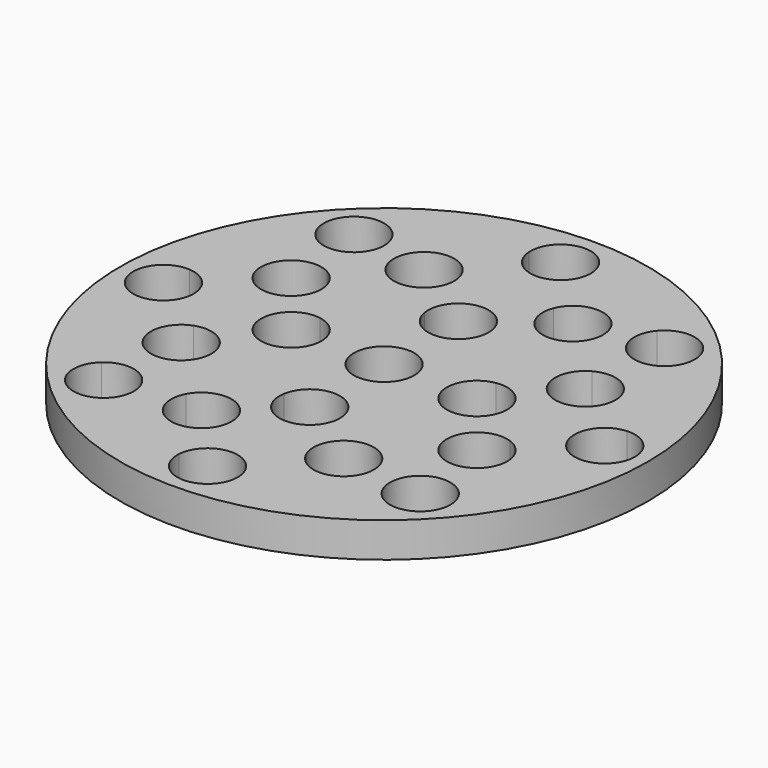
from build123d import *

# Parameters (mm, degrees)
F0_R     = 22.7269088133
F0_R_2   = 2.6
F1_DEPTH = 0.2
F2_DEPTH = 3


with BuildPart() as f1:
    # F0 (on Top) → F1 (new body)
    with BuildSketch(Plane.XY):
        Circle(F0_R)
        with BuildLine():
            ThreePointArc((15.0115532992, 11.647028271), (17.5119634584, 7.3709657326), (18.8221052632, 2.593906988))
            ThreePointArc((18.8221052632, 2.593906988), (20.7744680448, 1.9003323809), (21.6, 0))
            ThreePointArc((21.6, 0), (20.7744680448, -1.9003323809), (18.8221052632, -2.593906988))
            ThreePointArc((18.8221052632, -2.593906988), (17.6166685539, -7.1170913344), (15.3419208378, -11.2082766296))
            ThreePointArc((15.3419208378, -11.2082766296), (16.0252145474, -12.1005475611), (16.2681064145, -13.1978356954))
            ThreePointArc((16.2681064145, -13.1978356954), (14.6015472715, -15.6244976344), (11.7383462865, -14.940255234))
            ThreePointArc((11.7383462865, -14.940255234), (7.4243222515, -17.4894093413), (2.593906988, -18.8221052632))
            ThreePointArc((2.593906988, -18.8221052632), (2.5984763005, -18.9110004745), (2.6, -19))
            ThreePointArc((2.6, -19), (-0.0889995255, -21.5984763005), (-2.593906988, -18.8221052632))
            ThreePointArc((-2.593906988, -18.8221052632), (-7.167611519, -17.5961741612), (-11.2961362901, -15.2773461346))
            ThreePointArc((-11.2961362901, -15.2773461346), (-15.0927804828, -15.4521188611), (-15.0073732433, -11.6524138417))
            ThreePointArc((-15.0073732433, -11.6524138417), (-17.5106407823, -7.3741073624), (-18.8221052632, -2.593906988))
            ThreePointArc((-18.8221052632, -2.593906988), (-21.6, 0), (-18.8221052632, 2.593906988))
            ThreePointArc((-18.8221052632, 2.593906988), (-17.5399423951, 7.3041372371), (-15.0999387471, 11.5322092348))
            ThreePointArc((-15.0999387471, 11.5322092348), (-15.2156837185, 15.3311111463), (-11.4177650122, 15.1866600056))
            ThreePointArc((-11.4177650122, 15.1866600056), (-7.2378072381, 17.5674171802), (-2.593906988, 18.8221052632))
            ThreePointArc((-2.593906988, 18.8221052632), (-0.0889995255, 21.5984763005), (2.6, 19))
            ThreePointArc((2.6, 19), (2.5984763005, 18.9110004745), (2.593906988, 18.8221052632))
            ThreePointArc((2.593906988, 18.8221052632), (7.17076826, 17.5948879667), (11.3016172529, 15.2732919657))
            ThreePointArc((11.3016172529, 15.2732919657), (14.1792033178, 16.0272768152), (15.8809330705, 13.5873771118))
            ThreePointArc((15.8809330705, 13.5873771118), (15.6536543557, 12.5242714243), (15.0115532992, 11.647028271))
        make_face(mode=Mode.SUBTRACT)
        with BuildLine():
            ThreePointArc((18.8221052632, -2.593906988), (16.4, 0), (18.8221052632, 2.593906988))
            ThreePointArc((18.8221052632, 2.593906988), (17.5119634584, 7.3709657326), (15.0115532992, 11.647028271))
            ThreePointArc((15.0115532992, 11.647028271), (11.4635422292, 11.7280518228), (11.3016172529, 15.2732919657))
            ThreePointArc((11.3016172529, 15.2732919657), (7.17076826, 17.5948879667), (2.593906988, 18.8221052632))
            ThreePointArc((2.593906988, 18.8221052632), (0, 16.4), (-2.593906988, 18.8221052632))
            ThreePointArc((-2.593906988, 18.8221052632), (-7.2378072381, 17.5674171802), (-11.4177650122, 15.1866600056))
            ThreePointArc((-11.4177650122, 15.1866600056), (-10.9477094647, 14.3932669237), (-10.7841662339, 13.4856996194))
            ThreePointArc((-10.7841662339, 13.4856996194), (-12.312020846, 11.1170493144), (-15.0999387471, 11.5322092348))
            ThreePointArc((-15.0999387471, 11.5322092348), (-17.5399423951, 7.3041372371), (-18.8221052632, 2.593906988))
            ThreePointArc((-18.8221052632, 2.593906988), (-17.0996676191, 1.7744680448), (-16.4, 0))
            ThreePointArc((-16.4, 0), (-17.0996676191, -1.7744680448), (-18.8221052632, -2.593906988))
            ThreePointArc((-18.8221052632, -2.593906988), (-17.5106407823, -7.3741073624), (-15.0073732433, -11.6524138417))
            ThreePointArc((-15.0073732433, -11.6524138417), (-12.2133769159, -11.2192296164), (-10.6760569061, -13.5921415908))
            ThreePointArc((-10.6760569061, -13.5921415908), (-10.8359960871, -14.4899740914), (-11.2961362901, -15.2773461346))
            ThreePointArc((-11.2961362901, -15.2773461346), (-7.167611519, -17.5961741612), (-2.593906988, -18.8221052632))
            ThreePointArc((-2.593906988, -18.8221052632), (0, -16.4), (2.593906988, -18.8221052632))
            ThreePointArc((2.593906988, -18.8221052632), (7.4243222515, -17.4894093413), (11.7383462865, -14.940255234))
            ThreePointArc((11.7383462865, -14.940255234), (11.7977339578, -11.3918160739), (15.3419208378, -11.2082766296))
            ThreePointArc((15.3419208378, -11.2082766296), (17.6166685539, -7.1170913344), (18.8221052632, -2.593906988))
        make_face()
        with BuildLine():
            ThreePointArc((-13.5738623048, 3.4278655357), (-15.0656019054, 6.9704834286), (-11.3997714217, 8.1268205058))
            ThreePointArc((-11.3997714217, 8.1268205058), (-10.1345987705, 9.6586700824), (-8.665326419, 10.9960046404))
            ThreePointArc((-8.665326419, 10.9960046404), (-7.6865134191, 14.713174758), (-4.0762933296, 13.3934249799))
            ThreePointArc((-4.0762933296, 13.3934249799), (-0.1422720179, 13.9992770768), (3.8032497947, 13.4735032935))
            ThreePointArc((3.8032497947, 13.4735032935), (6.704919005, 15.093973203), (8.8290741845, 12.5378879722))
            ThreePointArc((8.8290741845, 12.5378879722), (8.7299301101, 11.8267482955), (8.440059077, 11.1698434535))
            ThreePointArc((8.440059077, 11.1698434535), (10.1223773358, 9.671477502), (11.5425830762, 7.9226747963))
            ThreePointArc((11.5425830762, 7.9226747963), (14.1254460838, 7.89350215), (15.4085292297, 5.6516881524))
            ThreePointArc((15.4085292297, 5.6516881524), (14.9183722031, 4.1322926715), (13.632711824, 3.1857759376))
            ThreePointArc((13.632711824, 3.1857759376), (13.9078748473, 1.6034391888), (14, 0))
            ThreePointArc((14, 0), (13.8928375225, -1.7288914289), (13.5729906324, -3.431315388))
            ThreePointArc((13.5729906324, -3.431315388), (14.8279042394, -4.3816577151), (15.3044347586, -5.8819501413))
            ThreePointArc((15.3044347586, -5.8819501413), (14.0010657752, -8.135557917), (11.3977055227, -8.1297176346))
            ThreePointArc((11.3977055227, -8.1297176346), (10.1242753607, -9.6694905978), (8.6446134433, -11.0122957832))
            ThreePointArc((8.6446134433, -11.0122957832), (8.9534255166, -11.6867114274), (9.0592334701, -12.4208817311))
            ThreePointArc((9.0592334701, -12.4208817311), (6.9586282011, -14.9724704328), (4.0510758527, -13.4010740031))
            ThreePointArc((4.0510758527, -13.4010740031), (0.5892198681, -13.9875952167), (-2.9096982086, -13.6942928381))
            ThreePointArc((-2.9096982086, -13.6942928381), (-6.3930849811, -15.3195451768), (-7.6878579795, -11.7002922907))
            ThreePointArc((-7.6878579795, -11.7002922907), (-9.6368445542, -10.1553545993), (-11.2817109425, -8.2899335468))
            ThreePointArc((-11.2817109425, -8.2899335468), (-14.9637929237, -7.1864387102), (-13.5231581881, -3.6227327557))
            ThreePointArc((-13.5231581881, -3.6227327557), (-13.9996379941, -0.1006778785), (-13.5738623048, 3.4278655357))
        make_face(mode=Mode.SUBTRACT)
        with BuildLine():
            ThreePointArc((-11.3997714217, 8.1268205058), (-10.4524863376, 7.175638361), (-10.1059293178, 5.8787209639))
            ThreePointArc((-10.1059293178, 5.8787209639), (-11.2053670509, 3.755442159), (-13.5738623048, 3.4278655357))
            ThreePointArc((-13.5738623048, 3.4278655357), (-13.9996379941, -0.1006778785), (-13.5231581881, -3.6227327557))
            ThreePointArc((-13.5231581881, -3.6227327557), (-11.1348119413, -3.9268370633), (-10.0200663212, -6.0608519243))
            ThreePointArc((-10.0200663212, -6.0608519243), (-10.3573551173, -7.3415306535), (-11.2817109425, -8.2899335468))
            ThreePointArc((-11.2817109425, -8.2899335468), (-9.6368445542, -10.1553545993), (-7.6878579795, -11.7002922907))
            ThreePointArc((-7.6878579795, -11.7002922907), (-4.7632120235, -10.3972171655), (-2.7917584178, -12.9200983419))
            ThreePointArc((-2.7917584178, -12.9200983419), (-2.8214124738, -13.3116615271), (-2.9096982086, -13.6942928381))
            ThreePointArc((-2.9096982086, -13.6942928381), (0.5892198681, -13.9875952167), (4.0510758527, -13.4010740031))
            ThreePointArc((4.0510758527, -13.4010740031), (5.2596615399, -10.1141465525), (8.6446134433, -11.0122957832))
            ThreePointArc((8.6446134433, -11.0122957832), (10.1242753607, -9.6694905978), (11.3977055227, -8.1297176346))
            ThreePointArc((11.3977055227, -8.1297176346), (10.345039732, -4.7895879722), (13.5729906324, -3.431315388))
            ThreePointArc((13.5729906324, -3.431315388), (13.8928375225, -1.7288914289), (14, 0))
            ThreePointArc((14, 0), (13.9078748473, 1.6034391888), (13.632711824, 3.1857759376))
            ThreePointArc((13.632711824, 3.1857759376), (10.4298023727, 4.6020889241), (11.5425830762, 7.9226747963))
            ThreePointArc((11.5425830762, 7.9226747963), (10.1223773358, 9.671477502), (8.440059077, 11.1698434535))
            ThreePointArc((8.440059077, 11.1698434535), (5.0722461217, 10.2094230631), (3.8032497947, 13.4735032935))
            ThreePointArc((3.8032497947, 13.4735032935), (-0.1422720179, 13.9992770768), (-4.0762933296, 13.3934249799))
            ThreePointArc((-4.0762933296, 13.3934249799), (-3.9314841092, 12.9104975238), (-3.8826016788, 12.4087016031))
            ThreePointArc((-3.8826016788, 12.4087016031), (-5.7460843078, 9.9152016207), (-8.665326419, 10.9960046404))
            ThreePointArc((-8.665326419, 10.9960046404), (-10.1345987705, 9.6586700824), (-11.3997714217, 8.1268205058))
        make_face()
        with BuildLine():
            ThreePointArc((2.5654422133, 7.5775), (5.6568542495, 5.6568542495), (7.5775, 2.5654422133))
            ThreePointArc((7.5775, 2.5654422133), (9.6824832837, 1.9822335887), (10.6, 0))
            ThreePointArc((10.6, 0), (9.6824832837, -1.9822335887), (7.5775, -2.5654422133))
            ThreePointArc((7.5775, -2.5654422133), (5.6568542495, -5.6568542495), (2.5654422133, -7.5775))
            ThreePointArc((2.5654422133, -7.5775), (2.5913461516, -7.7880445267), (2.6, -8))
            ThreePointArc((2.6, -8), (-0.2119554733, -10.5913461516), (-2.5654422133, -7.5775))
            ThreePointArc((-2.5654422133, -7.5775), (-5.6568542495, -5.6568542495), (-7.5775, -2.5654422133))
            ThreePointArc((-7.5775, -2.5654422133), (-10.6, 0), (-7.5775, 2.5654422133))
            ThreePointArc((-7.5775, 2.5654422133), (-5.6568542495, 5.6568542495), (-2.5654422133, 7.5775))
            ThreePointArc((-2.5654422133, 7.5775), (-0.2119554733, 10.5913461516), (2.6, 8))
            ThreePointArc((2.6, 8), (2.5913461516, 7.7880445267), (2.5654422133, 7.5775))
        make_face(mode=Mode.SUBTRACT)
        with BuildLine():
            ThreePointArc((7.5775, -2.5654422133), (5.4, 0), (7.5775, 2.5654422133))
            ThreePointArc((7.5775, 2.5654422133), (5.6568542495, 5.6568542495), (2.5654422133, 7.5775))
            ThreePointArc((2.5654422133, 7.5775), (0, 5.4), (-2.5654422133, 7.5775))
            ThreePointArc((-2.5654422133, 7.5775), (-5.6568542495, 5.6568542495), (-7.5775, 2.5654422133))
            ThreePointArc((-7.5775, 2.5654422133), (-6.0177664113, 1.6824832837), (-5.4, 0))
            ThreePointArc((-5.4, 0), (-6.0177664113, -1.6824832837), (-7.5775, -2.5654422133))
            ThreePointArc((-7.5775, -2.5654422133), (-5.6568542495, -5.6568542495), (-2.5654422133, -7.5775))
            ThreePointArc((-2.5654422133, -7.5775), (0, -5.4), (2.5654422133, -7.5775))
            ThreePointArc((2.5654422133, -7.5775), (5.6568542495, -5.6568542495), (7.5775, -2.5654422133))
        make_face()
        Circle(F0_R_2, mode=Mode.SUBTRACT)
        with BuildLine():
            ThreePointArc((-15.0073732433, -11.6524138417), (-13.2760569061, -13.5921415908), (-11.2961362901, -15.2773461346))
            ThreePointArc((-11.2961362901, -15.2773461346), (-10.8359960871, -14.4899740914), (-10.6760569061, -13.5921415908))
            ThreePointArc((-10.6760569061, -13.5921415908), (-12.2133769159, -11.2192296164), (-15.0073732433, -11.6524138417))
        make_face()
        with BuildLine():
            ThreePointArc((-11.2817109425, -8.2899335468), (-12.6200663212, -6.0608519243), (-13.5231581881, -3.6227327557))
            ThreePointArc((-13.5231581881, -3.6227327557), (-14.9637929237, -7.1864387102), (-11.2817109425, -8.2899335468))
        make_face()
        with BuildLine():
            ThreePointArc((-2.593906988, -18.8221052632), (0, -19), (2.593906988, -18.8221052632))
            ThreePointArc((2.593906988, -18.8221052632), (0, -16.4), (-2.593906988, -18.8221052632))
        make_face()
        with BuildLine():
            ThreePointArc((2.6, -19), (2.5984763005, -18.9110004745), (2.593906988, -18.8221052632))
            ThreePointArc((2.593906988, -18.8221052632), (0, -19), (-2.593906988, -18.8221052632))
            ThreePointArc((-2.593906988, -18.8221052632), (-0.0889995255, -21.5984763005), (2.6, -19))
        make_face()
        with BuildLine():
            ThreePointArc((-2.5654422133, 7.5775), (0, 8), (2.5654422133, 7.5775))
            ThreePointArc((2.5654422133, 7.5775), (2.5913461516, 7.7880445267), (2.6, 8))
            ThreePointArc((2.6, 8), (-0.2119554733, 10.5913461516), (-2.5654422133, 7.5775))
        make_face()
        with BuildLine():
            ThreePointArc((-10.7841662339, 13.4856996194), (-10.9477094647, 14.3932669237), (-11.4177650122, 15.1866600056))
            ThreePointArc((-11.4177650122, 15.1866600056), (-13.3841662339, 13.4856996194), (-15.0999387471, 11.5322092348))
            ThreePointArc((-15.0999387471, 11.5322092348), (-12.312020846, 11.1170493144), (-10.7841662339, 13.4856996194))
        make_face()
        with BuildLine():
            ThreePointArc((15.4085292297, 5.6516881524), (14.1254460838, 7.89350215), (11.5425830762, 7.9226747963))
            ThreePointArc((11.5425830762, 7.9226747963), (12.8085292297, 5.6516881524), (13.632711824, 3.1857759376))
            ThreePointArc((13.632711824, 3.1857759376), (14.9183722031, 4.1322926715), (15.4085292297, 5.6516881524))
        make_face()
        with BuildLine():
            ThreePointArc((-7.5775, -2.5654422133), (-8, 0), (-7.5775, 2.5654422133))
            ThreePointArc((-7.5775, 2.5654422133), (-10.6, 0), (-7.5775, -2.5654422133))
        make_face()
        with BuildLine():
            ThreePointArc((-2.5654422133, -7.5775), (0, -8), (2.5654422133, -7.5775))
            ThreePointArc((2.5654422133, -7.5775), (0, -5.4), (-2.5654422133, -7.5775))
        make_face()
        with BuildLine():
            ThreePointArc((-4.0762933296, 13.3934249799), (-7.6865134191, 14.713174758), (-8.665326419, 10.9960046404))
            ThreePointArc((-8.665326419, 10.9960046404), (-6.4826016788, 12.4087016031), (-4.0762933296, 13.3934249799))
        make_face()
        with BuildLine():
            ThreePointArc((8.8290741845, 12.5378879722), (6.704919005, 15.093973203), (3.8032497947, 13.4735032935))
            ThreePointArc((3.8032497947, 13.4735032935), (6.2290741845, 12.5378879722), (8.440059077, 11.1698434535))
            ThreePointArc((8.440059077, 11.1698434535), (8.7299301101, 11.8267482955), (8.8290741845, 12.5378879722))
        make_face()
        with BuildLine():
            ThreePointArc((11.7383462865, -14.940255234), (13.6681064145, -13.1978356954), (15.3419208378, -11.2082766296))
            ThreePointArc((15.3419208378, -11.2082766296), (11.7977339578, -11.3918160739), (11.7383462865, -14.940255234))
        make_face()
        with BuildLine():
            ThreePointArc((13.5729906324, -3.431315388), (10.345039732, -4.7895879722), (11.3977055227, -8.1297176346))
            ThreePointArc((11.3977055227, -8.1297176346), (12.7044347586, -5.8819501413), (13.5729906324, -3.431315388))
        make_face()
        with BuildLine():
            ThreePointArc((-2.593906988, 18.8221052632), (0, 19), (2.593906988, 18.8221052632))
            ThreePointArc((2.593906988, 18.8221052632), (2.5984763005, 18.9110004745), (2.6, 19))
            ThreePointArc((2.6, 19), (-0.0889995255, 21.5984763005), (-2.593906988, 18.8221052632))
        make_face()
        with BuildLine():
            ThreePointArc((11.3016172529, 15.2732919657), (11.4635422292, 11.7280518228), (15.0115532992, 11.647028271))
            ThreePointArc((15.0115532992, 11.647028271), (13.2809330705, 13.5873771118), (11.3016172529, 15.2732919657))
        make_face()
        with BuildLine():
            ThreePointArc((18.8221052632, -2.593906988), (18.9554741434, -1.3), (19, 0))
            ThreePointArc((19, 0), (18.9554741434, 1.3), (18.8221052632, 2.593906988))
            ThreePointArc((18.8221052632, 2.593906988), (16.4, 0), (18.8221052632, -2.593906988))
        make_face()
        with BuildLine():
            ThreePointArc((18.8221052632, 2.593906988), (18.9554741434, 1.3), (19, 0))
            ThreePointArc((19, 0), (18.9554741434, -1.3), (18.8221052632, -2.593906988))
            ThreePointArc((18.8221052632, -2.593906988), (20.7744680448, -1.9003323809), (21.6, 0))
            ThreePointArc((21.6, 0), (20.7744680448, 1.9003323809), (18.8221052632, 2.593906988))
        make_face()
        with BuildLine():
            ThreePointArc((-2.593906988, 18.8221052632), (0, 16.4), (2.593906988, 18.8221052632))
            ThreePointArc((2.593906988, 18.8221052632), (0, 19), (-2.593906988, 18.8221052632))
        make_face()
        with BuildLine():
            ThreePointArc((7.5775, -2.5654422133), (7.8936683487, -1.3), (8, 0))
            ThreePointArc((8, 0), (7.8936683487, 1.3), (7.5775, 2.5654422133))
            ThreePointArc((7.5775, 2.5654422133), (5.4, 0), (7.5775, -2.5654422133))
        make_face()
        with BuildLine():
            ThreePointArc((13.632711824, 3.1857759376), (12.8085292297, 5.6516881524), (11.5425830762, 7.9226747963))
            ThreePointArc((11.5425830762, 7.9226747963), (10.4298023727, 4.6020889241), (13.632711824, 3.1857759376))
        make_face()
        with BuildLine():
            ThreePointArc((-5.4, 0), (-6.0177664113, 1.6824832837), (-7.5775, 2.5654422133))
            ThreePointArc((-7.5775, 2.5654422133), (-8, 0), (-7.5775, -2.5654422133))
            ThreePointArc((-7.5775, -2.5654422133), (-6.0177664113, -1.6824832837), (-5.4, 0))
        make_face()
        with BuildLine():
            ThreePointArc((-13.5738623048, 3.4278655357), (-11.2053670509, 3.755442159), (-10.1059293178, 5.8787209639))
            ThreePointArc((-10.1059293178, 5.8787209639), (-10.4524863376, 7.175638361), (-11.3997714217, 8.1268205058))
            ThreePointArc((-11.3997714217, 8.1268205058), (-12.7059293178, 5.8787209639), (-13.5738623048, 3.4278655357))
        make_face()
        with BuildLine():
            ThreePointArc((-18.8221052632, -2.593906988), (-19, 0), (-18.8221052632, 2.593906988))
            ThreePointArc((-18.8221052632, 2.593906988), (-21.6, 0), (-18.8221052632, -2.593906988))
        make_face()
        with BuildLine():
            ThreePointArc((11.3016172529, 15.2732919657), (13.2809330705, 13.5873771118), (15.0115532992, 11.647028271))
            ThreePointArc((15.0115532992, 11.647028271), (15.6536543557, 12.5242714243), (15.8809330705, 13.5873771118))
            ThreePointArc((15.8809330705, 13.5873771118), (14.1792033178, 16.0272768152), (11.3016172529, 15.2732919657))
        make_face()
        with BuildLine():
            ThreePointArc((2.6, -8), (2.5913461516, -7.7880445267), (2.5654422133, -7.5775))
            ThreePointArc((2.5654422133, -7.5775), (0, -8), (-2.5654422133, -7.5775))
            ThreePointArc((-2.5654422133, -7.5775), (-0.2119554733, -10.5913461516), (2.6, -8))
        make_face()
        with BuildLine():
            ThreePointArc((8.440059077, 11.1698434535), (6.2290741845, 12.5378879722), (3.8032497947, 13.4735032935))
            ThreePointArc((3.8032497947, 13.4735032935), (5.0722461217, 10.2094230631), (8.440059077, 11.1698434535))
        make_face()
        with BuildLine():
            ThreePointArc((-13.5738623048, 3.4278655357), (-12.7059293178, 5.8787209639), (-11.3997714217, 8.1268205058))
            ThreePointArc((-11.3997714217, 8.1268205058), (-15.0656019054, 6.9704834286), (-13.5738623048, 3.4278655357))
        make_face()
        with BuildLine():
            ThreePointArc((-2.9096982086, -13.6942928381), (-5.3917584178, -12.9200983419), (-7.6878579795, -11.7002922907))
            ThreePointArc((-7.6878579795, -11.7002922907), (-6.3930849811, -15.3195451768), (-2.9096982086, -13.6942928381))
        make_face()
        with BuildLine():
            ThreePointArc((8.6446134433, -11.0122957832), (6.4592334701, -12.4208817311), (4.0510758527, -13.4010740031))
            ThreePointArc((4.0510758527, -13.4010740031), (6.9586282011, -14.9724704328), (9.0592334701, -12.4208817311))
            ThreePointArc((9.0592334701, -12.4208817311), (8.9534255166, -11.6867114274), (8.6446134433, -11.0122957832))
        make_face()
        with BuildLine():
            ThreePointArc((-15.0999387471, 11.5322092348), (-13.3841662339, 13.4856996194), (-11.4177650122, 15.1866600056))
            ThreePointArc((-11.4177650122, 15.1866600056), (-15.2156837185, 15.3311111463), (-15.0999387471, 11.5322092348))
        make_face()
        with BuildLine():
            ThreePointArc((-16.4, 0), (-17.0996676191, 1.7744680448), (-18.8221052632, 2.593906988))
            ThreePointArc((-18.8221052632, 2.593906988), (-19, 0), (-18.8221052632, -2.593906988))
            ThreePointArc((-18.8221052632, -2.593906988), (-17.0996676191, -1.7744680448), (-16.4, 0))
        make_face()
        with BuildLine():
            ThreePointArc((-10.0200663212, -6.0608519243), (-11.1348119413, -3.9268370633), (-13.5231581881, -3.6227327557))
            ThreePointArc((-13.5231581881, -3.6227327557), (-12.6200663212, -6.0608519243), (-11.2817109425, -8.2899335468))
            ThreePointArc((-11.2817109425, -8.2899335468), (-10.3573551173, -7.3415306535), (-10.0200663212, -6.0608519243))
        make_face()
        with BuildLine():
            ThreePointArc((13.5729906324, -3.431315388), (12.7044347586, -5.8819501413), (11.3977055227, -8.1297176346))
            ThreePointArc((11.3977055227, -8.1297176346), (14.0010657752, -8.135557917), (15.3044347586, -5.8819501413))
            ThreePointArc((15.3044347586, -5.8819501413), (14.8279042394, -4.3816577151), (13.5729906324, -3.431315388))
        make_face()
        with BuildLine():
            ThreePointArc((-4.0762933296, 13.3934249799), (-6.4826016788, 12.4087016031), (-8.665326419, 10.9960046404))
            ThreePointArc((-8.665326419, 10.9960046404), (-5.7460843078, 9.9152016207), (-3.8826016788, 12.4087016031))
            ThreePointArc((-3.8826016788, 12.4087016031), (-3.9314841092, 12.9104975238), (-4.0762933296, 13.3934249799))
        make_face()
        with BuildLine():
            ThreePointArc((-2.5654422133, 7.5775), (0, 5.4), (2.5654422133, 7.5775))
            ThreePointArc((2.5654422133, 7.5775), (0, 8), (-2.5654422133, 7.5775))
        make_face()
        with BuildLine():
            ThreePointArc((16.2681064145, -13.1978356954), (16.0252145474, -12.1005475611), (15.3419208378, -11.2082766296))
            ThreePointArc((15.3419208378, -11.2082766296), (13.6681064145, -13.1978356954), (11.7383462865, -14.940255234))
            ThreePointArc((11.7383462865, -14.940255234), (14.6015472715, -15.6244976344), (16.2681064145, -13.1978356954))
        make_face()
        with BuildLine():
            ThreePointArc((-15.0073732433, -11.6524138417), (-15.0927804828, -15.4521188611), (-11.2961362901, -15.2773461346))
            ThreePointArc((-11.2961362901, -15.2773461346), (-13.2760569061, -13.5921415908), (-15.0073732433, -11.6524138417))
        make_face()
        with BuildLine():
            ThreePointArc((7.5775, 2.5654422133), (7.8936683487, 1.3), (8, 0))
            ThreePointArc((8, 0), (7.8936683487, -1.3), (7.5775, -2.5654422133))
            ThreePointArc((7.5775, -2.5654422133), (9.6824832837, -1.9822335887), (10.6, 0))
            ThreePointArc((10.6, 0), (9.6824832837, 1.9822335887), (7.5775, 2.5654422133))
        make_face()
        with BuildLine():
            ThreePointArc((-2.7917584178, -12.9200983419), (-4.7632120235, -10.3972171655), (-7.6878579795, -11.7002922907))
            ThreePointArc((-7.6878579795, -11.7002922907), (-5.3917584178, -12.9200983419), (-2.9096982086, -13.6942928381))
            ThreePointArc((-2.9096982086, -13.6942928381), (-2.8214124738, -13.3116615271), (-2.7917584178, -12.9200983419))
        make_face()
        with BuildLine():
            ThreePointArc((8.6446134433, -11.0122957832), (5.2596615399, -10.1141465525), (4.0510758527, -13.4010740031))
            ThreePointArc((4.0510758527, -13.4010740031), (6.4592334701, -12.4208817311), (8.6446134433, -11.0122957832))
        make_face()
        Circle(F0_R_2)
    extrude(amount=F1_DEPTH)

    # F0 (on Top) → F2 (join)
    with BuildSketch(Plane.XY):
        Circle(F0_R)
        with BuildLine():
            ThreePointArc((15.0115532992, 11.647028271), (17.5119634584, 7.3709657326), (18.8221052632, 2.593906988))
            ThreePointArc((18.8221052632, 2.593906988), (20.7744680448, 1.9003323809), (21.6, 0))
            ThreePointArc((21.6, 0), (20.7744680448, -1.9003323809), (18.8221052632, -2.593906988))
            ThreePointArc((18.8221052632, -2.593906988), (17.6166685539, -7.1170913344), (15.3419208378, -11.2082766296))
            ThreePointArc((15.3419208378, -11.2082766296), (16.0252145474, -12.1005475611), (16.2681064145, -13.1978356954))
            ThreePointArc((16.2681064145, -13.1978356954), (14.6015472715, -15.6244976344), (11.7383462865, -14.940255234))
            ThreePointArc((11.7383462865, -14.940255234), (7.4243222515, -17.4894093413), (2.593906988, -18.8221052632))
            ThreePointArc((2.593906988, -18.8221052632), (2.5984763005, -18.9110004745), (2.6, -19))
            ThreePointArc((2.6, -19), (-0.0889995255, -21.5984763005), (-2.593906988, -18.8221052632))
            ThreePointArc((-2.593906988, -18.8221052632), (-7.167611519, -17.5961741612), (-11.2961362901, -15.2773461346))
            ThreePointArc((-11.2961362901, -15.2773461346), (-15.0927804828, -15.4521188611), (-15.0073732433, -11.6524138417))
            ThreePointArc((-15.0073732433, -11.6524138417), (-17.5106407823, -7.3741073624), (-18.8221052632, -2.593906988))
            ThreePointArc((-18.8221052632, -2.593906988), (-21.6, 0), (-18.8221052632, 2.593906988))
            ThreePointArc((-18.8221052632, 2.593906988), (-17.5399423951, 7.3041372371), (-15.0999387471, 11.5322092348))
            ThreePointArc((-15.0999387471, 11.5322092348), (-15.2156837185, 15.3311111463), (-11.4177650122, 15.1866600056))
            ThreePointArc((-11.4177650122, 15.1866600056), (-7.2378072381, 17.5674171802), (-2.593906988, 18.8221052632))
            ThreePointArc((-2.593906988, 18.8221052632), (-0.0889995255, 21.5984763005), (2.6, 19))
            ThreePointArc((2.6, 19), (2.5984763005, 18.9110004745), (2.593906988, 18.8221052632))
            ThreePointArc((2.593906988, 18.8221052632), (7.17076826, 17.5948879667), (11.3016172529, 15.2732919657))
            ThreePointArc((11.3016172529, 15.2732919657), (14.1792033178, 16.0272768152), (15.8809330705, 13.5873771118))
            ThreePointArc((15.8809330705, 13.5873771118), (15.6536543557, 12.5242714243), (15.0115532992, 11.647028271))
        make_face(mode=Mode.SUBTRACT)
        with BuildLine():
            ThreePointArc((18.8221052632, -2.593906988), (16.4, 0), (18.8221052632, 2.593906988))
            ThreePointArc((18.8221052632, 2.593906988), (17.5119634584, 7.3709657326), (15.0115532992, 11.647028271))
            ThreePointArc((15.0115532992, 11.647028271), (11.4635422292, 11.7280518228), (11.3016172529, 15.2732919657))
            ThreePointArc((11.3016172529, 15.2732919657), (7.17076826, 17.5948879667), (2.593906988, 18.8221052632))
            ThreePointArc((2.593906988, 18.8221052632), (0, 16.4), (-2.593906988, 18.8221052632))
            ThreePointArc((-2.593906988, 18.8221052632), (-7.2378072381, 17.5674171802), (-11.4177650122, 15.1866600056))
            ThreePointArc((-11.4177650122, 15.1866600056), (-10.9477094647, 14.3932669237), (-10.7841662339, 13.4856996194))
            ThreePointArc((-10.7841662339, 13.4856996194), (-12.312020846, 11.1170493144), (-15.0999387471, 11.5322092348))
            ThreePointArc((-15.0999387471, 11.5322092348), (-17.5399423951, 7.3041372371), (-18.8221052632, 2.593906988))
            ThreePointArc((-18.8221052632, 2.593906988), (-17.0996676191, 1.7744680448), (-16.4, 0))
            ThreePointArc((-16.4, 0), (-17.0996676191, -1.7744680448), (-18.8221052632, -2.593906988))
            ThreePointArc((-18.8221052632, -2.593906988), (-17.5106407823, -7.3741073624), (-15.0073732433, -11.6524138417))
            ThreePointArc((-15.0073732433, -11.6524138417), (-12.2133769159, -11.2192296164), (-10.6760569061, -13.5921415908))
            ThreePointArc((-10.6760569061, -13.5921415908), (-10.8359960871, -14.4899740914), (-11.2961362901, -15.2773461346))
            ThreePointArc((-11.2961362901, -15.2773461346), (-7.167611519, -17.5961741612), (-2.593906988, -18.8221052632))
            ThreePointArc((-2.593906988, -18.8221052632), (0, -16.4), (2.593906988, -18.8221052632))
            ThreePointArc((2.593906988, -18.8221052632), (7.4243222515, -17.4894093413), (11.7383462865, -14.940255234))
            ThreePointArc((11.7383462865, -14.940255234), (11.7977339578, -11.3918160739), (15.3419208378, -11.2082766296))
            ThreePointArc((15.3419208378, -11.2082766296), (17.6166685539, -7.1170913344), (18.8221052632, -2.593906988))
        make_face()
        with BuildLine():
            ThreePointArc((-13.5738623048, 3.4278655357), (-15.0656019054, 6.9704834286), (-11.3997714217, 8.1268205058))
            ThreePointArc((-11.3997714217, 8.1268205058), (-10.1345987705, 9.6586700824), (-8.665326419, 10.9960046404))
            ThreePointArc((-8.665326419, 10.9960046404), (-7.6865134191, 14.713174758), (-4.0762933296, 13.3934249799))
            ThreePointArc((-4.0762933296, 13.3934249799), (-0.1422720179, 13.9992770768), (3.8032497947, 13.4735032935))
            ThreePointArc((3.8032497947, 13.4735032935), (6.704919005, 15.093973203), (8.8290741845, 12.5378879722))
            ThreePointArc((8.8290741845, 12.5378879722), (8.7299301101, 11.8267482955), (8.440059077, 11.1698434535))
            ThreePointArc((8.440059077, 11.1698434535), (10.1223773358, 9.671477502), (11.5425830762, 7.9226747963))
            ThreePointArc((11.5425830762, 7.9226747963), (14.1254460838, 7.89350215), (15.4085292297, 5.6516881524))
            ThreePointArc((15.4085292297, 5.6516881524), (14.9183722031, 4.1322926715), (13.632711824, 3.1857759376))
            ThreePointArc((13.632711824, 3.1857759376), (13.9078748473, 1.6034391888), (14, 0))
            ThreePointArc((14, 0), (13.8928375225, -1.7288914289), (13.5729906324, -3.431315388))
            ThreePointArc((13.5729906324, -3.431315388), (14.8279042394, -4.3816577151), (15.3044347586, -5.8819501413))
            ThreePointArc((15.3044347586, -5.8819501413), (14.0010657752, -8.135557917), (11.3977055227, -8.1297176346))
            ThreePointArc((11.3977055227, -8.1297176346), (10.1242753607, -9.6694905978), (8.6446134433, -11.0122957832))
            ThreePointArc((8.6446134433, -11.0122957832), (8.9534255166, -11.6867114274), (9.0592334701, -12.4208817311))
            ThreePointArc((9.0592334701, -12.4208817311), (6.9586282011, -14.9724704328), (4.0510758527, -13.4010740031))
            ThreePointArc((4.0510758527, -13.4010740031), (0.5892198681, -13.9875952167), (-2.9096982086, -13.6942928381))
            ThreePointArc((-2.9096982086, -13.6942928381), (-6.3930849811, -15.3195451768), (-7.6878579795, -11.7002922907))
            ThreePointArc((-7.6878579795, -11.7002922907), (-9.6368445542, -10.1553545993), (-11.2817109425, -8.2899335468))
            ThreePointArc((-11.2817109425, -8.2899335468), (-14.9637929237, -7.1864387102), (-13.5231581881, -3.6227327557))
            ThreePointArc((-13.5231581881, -3.6227327557), (-13.9996379941, -0.1006778785), (-13.5738623048, 3.4278655357))
        make_face(mode=Mode.SUBTRACT)
        with BuildLine():
            ThreePointArc((-11.3997714217, 8.1268205058), (-10.4524863376, 7.175638361), (-10.1059293178, 5.8787209639))
            ThreePointArc((-10.1059293178, 5.8787209639), (-11.2053670509, 3.755442159), (-13.5738623048, 3.4278655357))
            ThreePointArc((-13.5738623048, 3.4278655357), (-13.9996379941, -0.1006778785), (-13.5231581881, -3.6227327557))
            ThreePointArc((-13.5231581881, -3.6227327557), (-11.1348119413, -3.9268370633), (-10.0200663212, -6.0608519243))
            ThreePointArc((-10.0200663212, -6.0608519243), (-10.3573551173, -7.3415306535), (-11.2817109425, -8.2899335468))
            ThreePointArc((-11.2817109425, -8.2899335468), (-9.6368445542, -10.1553545993), (-7.6878579795, -11.7002922907))
            ThreePointArc((-7.6878579795, -11.7002922907), (-4.7632120235, -10.3972171655), (-2.7917584178, -12.9200983419))
            ThreePointArc((-2.7917584178, -12.9200983419), (-2.8214124738, -13.3116615271), (-2.9096982086, -13.6942928381))
            ThreePointArc((-2.9096982086, -13.6942928381), (0.5892198681, -13.9875952167), (4.0510758527, -13.4010740031))
            ThreePointArc((4.0510758527, -13.4010740031), (5.2596615399, -10.1141465525), (8.6446134433, -11.0122957832))
            ThreePointArc((8.6446134433, -11.0122957832), (10.1242753607, -9.6694905978), (11.3977055227, -8.1297176346))
            ThreePointArc((11.3977055227, -8.1297176346), (10.345039732, -4.7895879722), (13.5729906324, -3.431315388))
            ThreePointArc((13.5729906324, -3.431315388), (13.8928375225, -1.7288914289), (14, 0))
            ThreePointArc((14, 0), (13.9078748473, 1.6034391888), (13.632711824, 3.1857759376))
            ThreePointArc((13.632711824, 3.1857759376), (10.4298023727, 4.6020889241), (11.5425830762, 7.9226747963))
            ThreePointArc((11.5425830762, 7.9226747963), (10.1223773358, 9.671477502), (8.440059077, 11.1698434535))
            ThreePointArc((8.440059077, 11.1698434535), (5.0722461217, 10.2094230631), (3.8032497947, 13.4735032935))
            ThreePointArc((3.8032497947, 13.4735032935), (-0.1422720179, 13.9992770768), (-4.0762933296, 13.3934249799))
            ThreePointArc((-4.0762933296, 13.3934249799), (-3.9314841092, 12.9104975238), (-3.8826016788, 12.4087016031))
            ThreePointArc((-3.8826016788, 12.4087016031), (-5.7460843078, 9.9152016207), (-8.665326419, 10.9960046404))
            ThreePointArc((-8.665326419, 10.9960046404), (-10.1345987705, 9.6586700824), (-11.3997714217, 8.1268205058))
        make_face()
        with BuildLine():
            ThreePointArc((2.5654422133, 7.5775), (5.6568542495, 5.6568542495), (7.5775, 2.5654422133))
            ThreePointArc((7.5775, 2.5654422133), (9.6824832837, 1.9822335887), (10.6, 0))
            ThreePointArc((10.6, 0), (9.6824832837, -1.9822335887), (7.5775, -2.5654422133))
            ThreePointArc((7.5775, -2.5654422133), (5.6568542495, -5.6568542495), (2.5654422133, -7.5775))
            ThreePointArc((2.5654422133, -7.5775), (2.5913461516, -7.7880445267), (2.6, -8))
            ThreePointArc((2.6, -8), (-0.2119554733, -10.5913461516), (-2.5654422133, -7.5775))
            ThreePointArc((-2.5654422133, -7.5775), (-5.6568542495, -5.6568542495), (-7.5775, -2.5654422133))
            ThreePointArc((-7.5775, -2.5654422133), (-10.6, 0), (-7.5775, 2.5654422133))
            ThreePointArc((-7.5775, 2.5654422133), (-5.6568542495, 5.6568542495), (-2.5654422133, 7.5775))
            ThreePointArc((-2.5654422133, 7.5775), (-0.2119554733, 10.5913461516), (2.6, 8))
            ThreePointArc((2.6, 8), (2.5913461516, 7.7880445267), (2.5654422133, 7.5775))
        make_face(mode=Mode.SUBTRACT)
        with BuildLine():
            ThreePointArc((7.5775, -2.5654422133), (5.4, 0), (7.5775, 2.5654422133))
            ThreePointArc((7.5775, 2.5654422133), (5.6568542495, 5.6568542495), (2.5654422133, 7.5775))
            ThreePointArc((2.5654422133, 7.5775), (0, 5.4), (-2.5654422133, 7.5775))
            ThreePointArc((-2.5654422133, 7.5775), (-5.6568542495, 5.6568542495), (-7.5775, 2.5654422133))
            ThreePointArc((-7.5775, 2.5654422133), (-6.0177664113, 1.6824832837), (-5.4, 0))
            ThreePointArc((-5.4, 0), (-6.0177664113, -1.6824832837), (-7.5775, -2.5654422133))
            ThreePointArc((-7.5775, -2.5654422133), (-5.6568542495, -5.6568542495), (-2.5654422133, -7.5775))
            ThreePointArc((-2.5654422133, -7.5775), (0, -5.4), (2.5654422133, -7.5775))
            ThreePointArc((2.5654422133, -7.5775), (5.6568542495, -5.6568542495), (7.5775, -2.5654422133))
        make_face()
        Circle(F0_R_2, mode=Mode.SUBTRACT)
    extrude(amount=F2_DEPTH)


solid = f1.part
